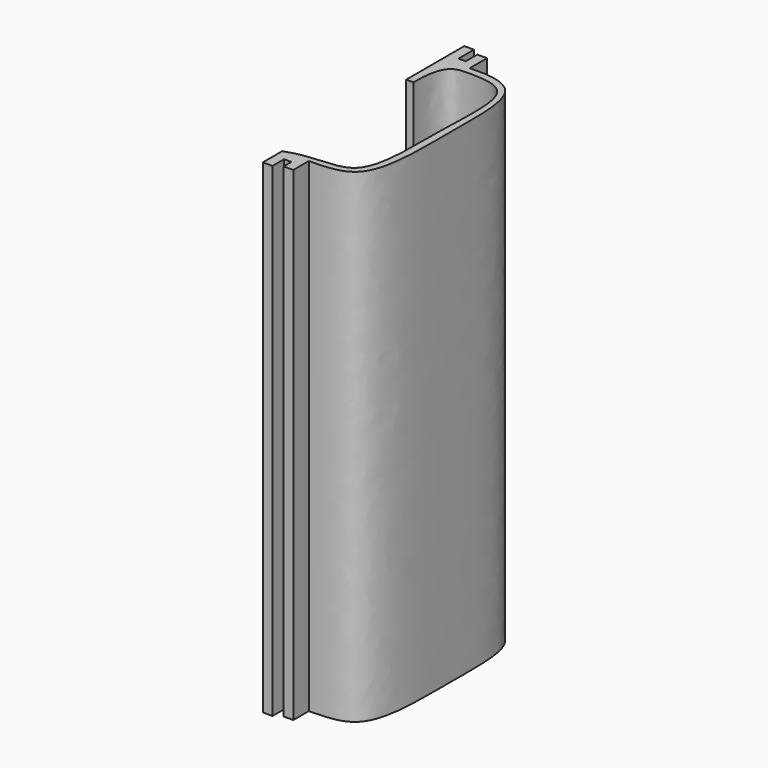
from build123d import *

# Parameters (mm, degrees)
F1_DEPTH = 100


with BuildPart() as f1:
    # F0 (on Top) → F1 (new body)
    with BuildSketch(Plane.XY):
        with BuildLine():
            Line((2, 100.3740105144), (0, 100.3740105144))
            Line((0, 100.3740105144), (0, 85.3740105144))
            Line((0, 85.3740105144), (1.5, 85.3740105144))
            add(Edge.make_bspline(
                [(1.5, 85.3740105144), (1.3939157059, 93.1213484798), (5.1687872173, 93.4279109213), (8.1423699069, 93.5034508883), (16.7877332495, 92.6925206044), (14.846698817, 75.1030797459), (16.3941520641, 52.1081501026), (5.4259561939, 55.4607057519), (0, 53.3740105144)],
                knots=[0, 0, 0, 0, 0.1563682253, 0.2425826373, 0.3709329444, 0.5831194527, 0.8100063534, 1, 1, 1, 1], degree=3))
            Line((0, 53.3740105144), (0, 48.3740105144))
            Line((0, 48.3740105144), (2, 48.3740105144))
            Line((2, 48.3740105144), (2, 51.3740105144))
            Line((2, 51.3740105144), (3.5, 51.3740105144))
            Line((3.5, 51.3740105144), (3.5, 49.3740105144))
            Line((3.5, 49.3740105144), (5.5, 49.3740105144))
            Line((5.5, 49.3740105144), (5.5, 53.3740105144))
            add(Edge.make_bspline(
                [(5.5, 94.9097154681), (7.6450947277, 94.9097154681), (7.5667543597, 95.018165846), (17.568419472, 94.1698647911), (16.6459586004, 75.7751963074), (17.5864049427, 53.2706775547), (8.7238503157, 53.4713672496), (5.5, 53.3740105144)],
                knots=[0, 0, 0, 0, 0.1074659159, 0.2654909955, 0.5269502058, 0.8102231603, 1, 1, 1, 1], degree=3))
            Line((5.5, 94.9097154681), (5.5, 99.3740105144))
            Line((5.5, 99.3740105144), (3.5, 99.3740105144))
            Line((3.5, 99.3740105144), (3.5, 96.3740105144))
            Line((3.5, 96.3740105144), (2, 96.3740105144))
            Line((2, 96.3740105144), (2, 100.3740105144))
        make_face()
    extrude(amount=F1_DEPTH)


solid = f1.part
